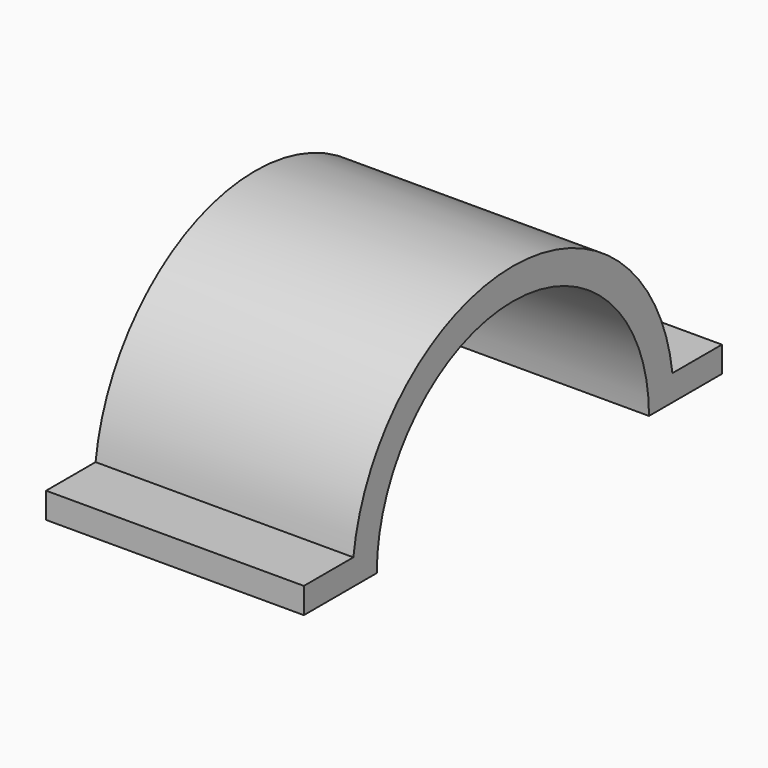
from build123d import *

# Parameters (mm, degrees)
F1_DEPTH = 25


with BuildPart() as f1:
    # F0 (on Right) → F1 (new body)
    with BuildSketch(Plane.YZ):
        with BuildLine():
            Line((-19.33908, 2.5), (-25.33908, 2.5))
            Line((-25.33908, 2.5), (-25.33908, 0))
            Line((-25.33908, 0), (-16.5, 0))
            ThreePointArc((-16.5, 0), (0, 16.5), (16.5, 0))
            Line((16.5, 0), (25.33908, 0))
            Line((25.33908, 0), (25.33908, 2.5))
            Line((25.33908, 2.5), (19.33908, 2.5))
            ThreePointArc((19.33908, 2.5), (0, 19.5), (-19.33908, 2.5))
        make_face()
    extrude(amount=F1_DEPTH)


solid = f1.part
